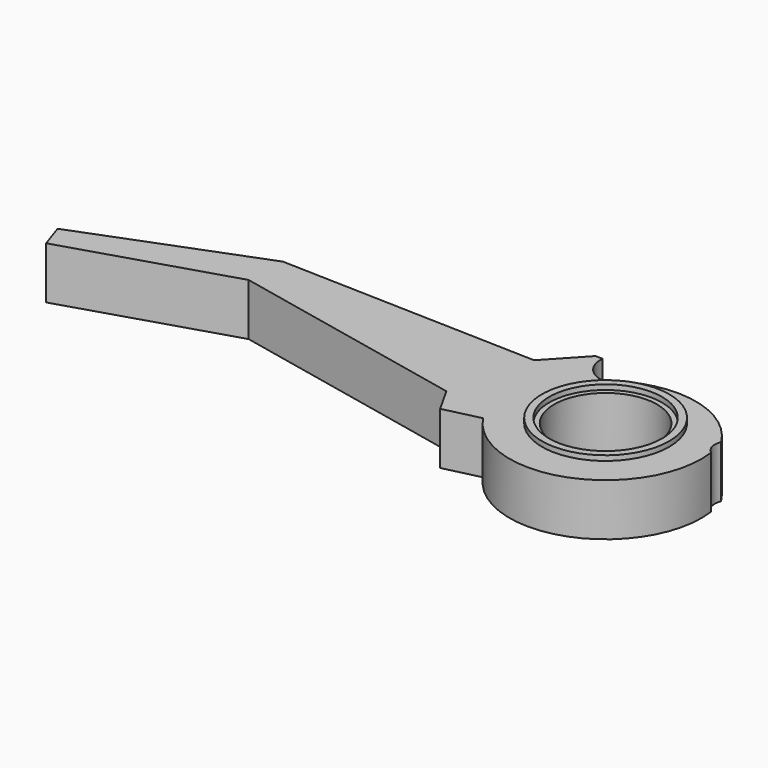
from build123d import *

# Parameters (mm, degrees)
SKETCH001_R   = 8
PAD_DEPTH     = 4.05
SKETCH002_R   = 9.892347
SKETCH002_R_2 = 8.778396
PAD001_DEPTH  = 4.825


with BuildPart() as part:
    # Sketch001 → Pad (new body, symmetric)
    with BuildSketch(Plane.XY):
        with BuildLine():
            ThreePointArc((-12.471576, -8.239007), (5.253972, -13.993471), (14.812215, 2.004932))
            ThreePointArc((14.049591, 4.890442), (13.918155, 3.312171), (14.812215, 2.004932))
            ThreePointArc((14.049591, 4.890442), (6.504678, 10.917918), (-3.152003, 10.849328))
            ThreePointArc((-10.894672, 13.052776), (-7.942462, 8.721353), (-3.152003, 10.849328))
            Line((-10.894672, 13.052776), (-12.022041, 13.052776))
            Line((-12.022041, 13.052776), (-17.151012, 7.540552))
            Line((-17.151012, 7.540552), (-57.172882, 8.741419))
            Line((-83.948982, -1.605249), (-57.172882, 8.741419))
            Line((-82.650063, -5.462648), (-83.948982, -1.605249))
            Line((-57.419521, 2.370234), (-82.650063, -5.462648))
            Line((-20.377901, -5.481424), (-57.419521, 2.370234))
            Line((-18.078703, -9.566922), (-20.377901, -5.481424))
            Line((-12.471576, -8.239007), (-18.078703, -9.566922))
        make_face()
        Circle(SKETCH001_R, mode=Mode.SUBTRACT)
    extrude(amount=PAD_DEPTH, both=True)

    # Sketch002 → Pad001 (join, symmetric)
    with BuildSketch(Plane.XY):
        Circle(SKETCH002_R)
        Circle(SKETCH002_R_2, mode=Mode.SUBTRACT)
    extrude(amount=PAD001_DEPTH, both=True)


solid = part.part
